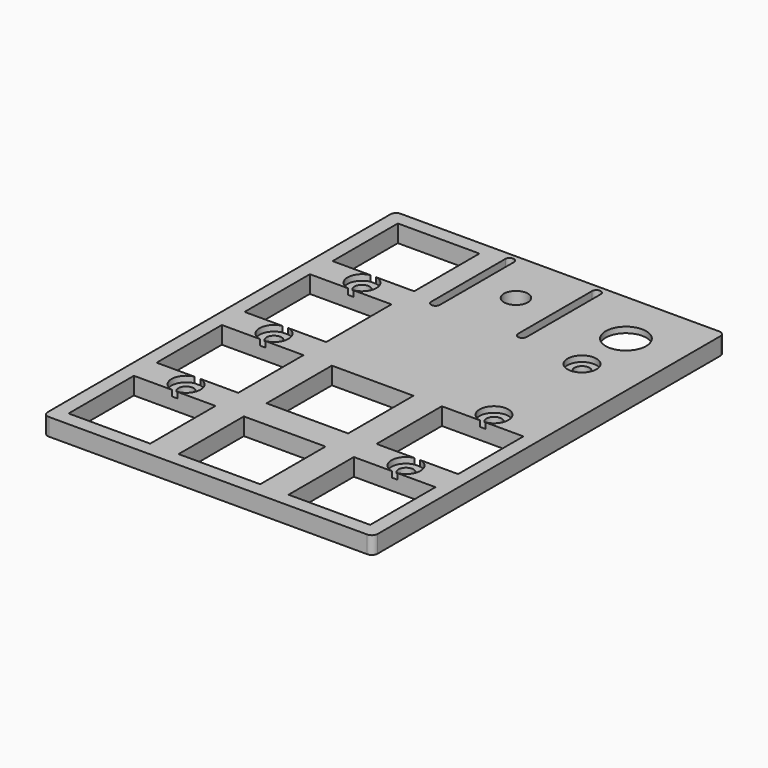
from build123d import *

# Parameters (mm, degrees)
SKETCH020_W     = 57
SKETCH020_H     = 76
SKETCH020_R     = 3.5
SKETCH020_R_2   = 1.3
SKETCH020_R_3   = 2.0625
SKETCH020_W_2   = 14.1
SKETCH020_H_2   = 14.1
PAD005_DEPTH    = 3
SKETCH022_W     = 15
SKETCH022_H     = 13
POCKET013_DEPTH = 2
FILLET005_R     = 1
SKETCH027_R     = 2.5
POCKET017_DEPTH = 1


with BuildPart() as part:
    # Sketch020 → Pad005 (new body)
    with BuildSketch(Plane.XY):
        with Locations((28.5, 38)):
            Rectangle(SKETCH020_W, SKETCH020_H)
        with Locations((47.5, 66.5)):
            Circle(SKETCH020_R, mode=Mode.SUBTRACT)
        with Locations((9.5, 57)):
            Circle(SKETCH020_R_2, mode=Mode.SUBTRACT)
        with Locations((9.5, 19)):
            Circle(SKETCH020_R_2, mode=Mode.SUBTRACT)
        with Locations((47.5, 19)):
            Circle(SKETCH020_R_2, mode=Mode.SUBTRACT)
        with Locations((47.5, 57)):
            Circle(SKETCH020_R_2, mode=Mode.SUBTRACT)
        with Locations((9.5, 38)):
            Circle(SKETCH020_R_2, mode=Mode.SUBTRACT)
        with Locations((47.5, 38)):
            Circle(SKETCH020_R_2, mode=Mode.SUBTRACT)
        with Locations((28.5, 66.5)):
            Circle(SKETCH020_R_3, mode=Mode.SUBTRACT)
        with Locations((9.5, 9.5)):
            Rectangle(SKETCH020_W_2, SKETCH020_H_2, mode=Mode.SUBTRACT)
        with Locations((9.5, 28.5)):
            Rectangle(SKETCH020_W_2, SKETCH020_H_2, mode=Mode.SUBTRACT)
        with Locations((9.5, 47.5)):
            Rectangle(SKETCH020_W_2, SKETCH020_H_2, mode=Mode.SUBTRACT)
        with Locations((9.5, 66.5)):
            Rectangle(SKETCH020_W_2, SKETCH020_H_2, mode=Mode.SUBTRACT)
        with Locations((28.5, 28.5)):
            Rectangle(SKETCH020_W_2, SKETCH020_H_2, mode=Mode.SUBTRACT)
        with Locations((47.5, 28.5)):
            Rectangle(SKETCH020_W_2, SKETCH020_H_2, mode=Mode.SUBTRACT)
        with Locations((28.5, 9.5)):
            Rectangle(SKETCH020_W_2, SKETCH020_H_2, mode=Mode.SUBTRACT)
        with Locations((47.5, 9.5)):
            Rectangle(SKETCH020_W_2, SKETCH020_H_2, mode=Mode.SUBTRACT)
        with BuildLine():
            ThreePointArc((21.75, 74.5), (21, 75.25), (20.25, 74.5))
            Line((20.25, 74.5), (20.25, 58.5))
            ThreePointArc((20.25, 58.5), (21, 57.75), (21.75, 58.5))
            Line((21.75, 74.5), (21.75, 58.5))
        make_face(mode=Mode.SUBTRACT)
        with BuildLine():
            ThreePointArc((36.75, 74.5), (36, 75.25), (35.25, 74.5))
            Line((35.25, 74.5), (35.25, 58.5))
            ThreePointArc((35.25, 58.5), (36, 57.75), (36.75, 58.5))
            Line((36.75, 58.5), (36.75, 74.5))
        make_face(mode=Mode.SUBTRACT)
    extrude(amount=PAD005_DEPTH)

    # Sketch022 → Pocket013 (cut)
    with BuildSketch(Plane(origin=(0, 0, 0), x_dir=(1, 0, 0), z_dir=(0, 0, -1))):
        with Locations((47.5, -66.5)):
            Rectangle(SKETCH022_W, SKETCH022_H)
    extrude(amount=-POCKET013_DEPTH, mode=Mode.SUBTRACT)

    # Fillet005
    fillet005_edges = [part.edges().sort_by_distance(p)[0] for p in [
        (0, 0, 1.5),
        (57, 0, 1.5),
        (57, 76, 1.5),
        (0, 76, 1.5),
    ]]
    fillet(fillet005_edges, radius=FILLET005_R)

    # Sketch027 (on Face5 of Fillet005) → Pocket017 (cut)
    with BuildSketch(Plane.XY.offset(3)):
        with Locations((9.5, 57)):
            Circle(SKETCH027_R)
        with Locations((9.5, 38)):
            Circle(SKETCH027_R)
        with Locations((47.5, 57)):
            Circle(SKETCH027_R)
        with Locations((47.5, 38)):
            Circle(SKETCH027_R)
        with Locations((47.5, 19)):
            Circle(SKETCH027_R)
        with Locations((9.5, 19)):
            Circle(SKETCH027_R)
    extrude(amount=-POCKET017_DEPTH, mode=Mode.SUBTRACT)


with BuildPart() as part_1:
    # Body004 placement: moved
    add(part.part.moved(Location((6, 6, 11))))


solid = part_1.part
